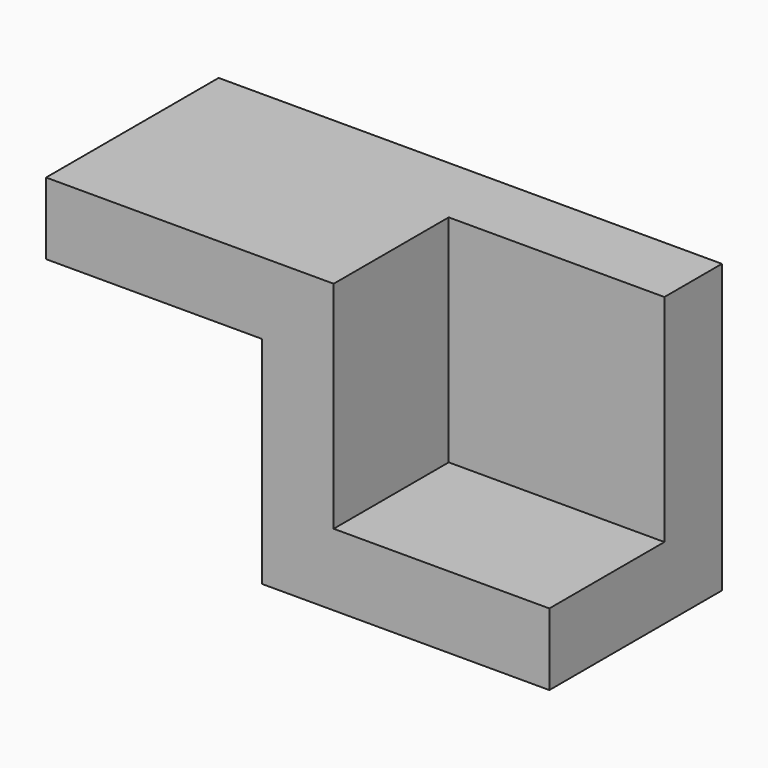
from build123d import *

# Parameters (mm, degrees)
F0_W     = 70
F0_H     = 30
F1_DEPTH = 40
F2_W     = 30
F2_H     = 20
F3_DEPTH = 30
F4_W     = 30
F4_H     = 30
F5_DEPTH = 30.001


with BuildPart() as f1:
    # F0 (on Top) → F1 (new body)
    with BuildSketch(Plane.XY):
        with Locations((35, 15)):
            Rectangle(F0_W, F0_H)
    extrude(amount=-F1_DEPTH)

    # F2 (on Top) → F3 (cut)
    with BuildSketch(Plane.XY):
        with Locations((55, 10)):
            Rectangle(F2_W, F2_H)
    extrude(amount=-F3_DEPTH, mode=Mode.SUBTRACT)

    # F4 (on Front) → F5 (cut, through all)
    with BuildSketch(Plane.XZ):
        with Locations((15, -25)):
            Rectangle(F4_W, F4_H)
    extrude(amount=-F5_DEPTH, mode=Mode.SUBTRACT)


solid = f1.part
